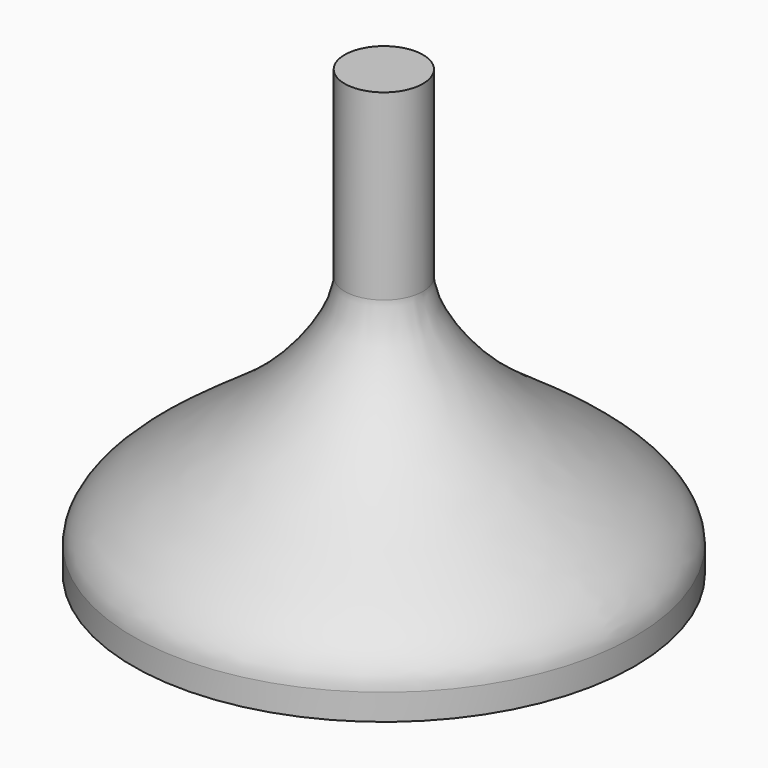
from build123d import *

# Parameters (mm, degrees)
F2_R     = 2.5
F3_DEPTH = 25


with BuildPart() as f1:
    # F0 (on Front) → F1 (revolve)
    with BuildSketch(Plane.XZ):
        with BuildLine():
            Line((0, 85), (0, 0))
            Line((0, 0), (48, 0))
            Line((48, 0), (48, 5))
            add(Edge.make_bspline(
                [(48, 5), (47.7693830737, 12.1516905368), (19.4170275378, 25.8092244503), (7.5425494924, 44.994633124), (7.5, 50)],
                knots=[0, 0, 0, 0, 0.5364054389, 1, 1, 1, 1], degree=3))
            Line((7.5, 50), (7.5, 85))
            Line((7.5, 85), (0, 85))
        make_face()
    revolve(axis=Axis((0, 0, 42.5), (0, 0, 1)))

    # F2 (on face) → F3 (cut)
    with BuildSketch(Plane(origin=(0, 0, 0), x_dir=(1, 0, 0), z_dir=(0, 0, -1))):
        Circle(F2_R)
    extrude(amount=-F3_DEPTH, mode=Mode.SUBTRACT)


solid = f1.part
